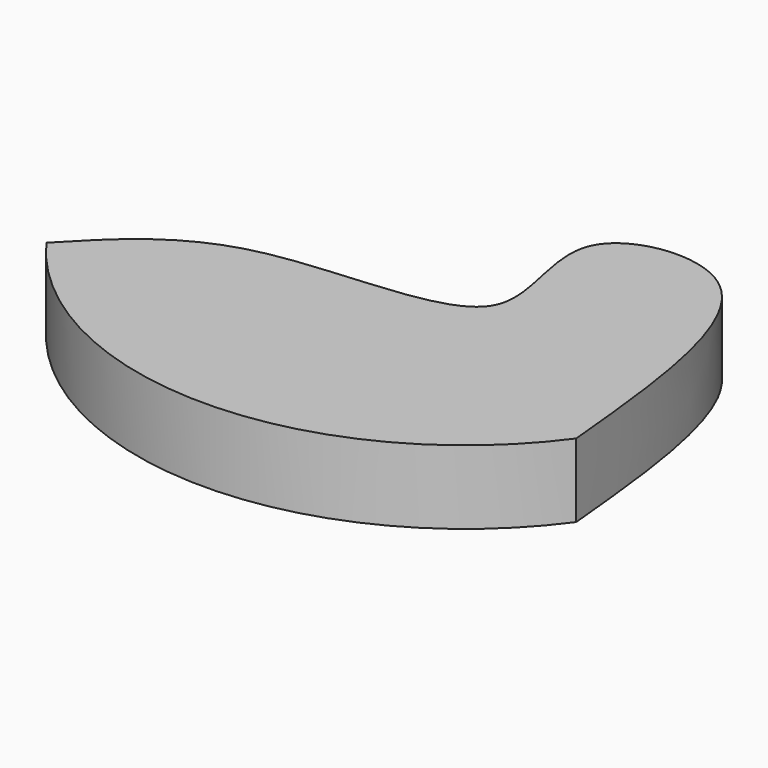
from build123d import *

# Parameters (mm, degrees)
F1_DEPTH = 25.4


with BuildPart() as f1:
    # F0 (on Top) → F1 (new body)
    with BuildSketch(Plane.XY):
        with BuildLine():
            add(Edge.make_bspline(
                [(-133.9695304632, 0), (-121.4644678355, 13.1006768928), (-94.9549490982, 40.8728400481), (4.2845064495, 30.1390340916), (-34.9491511295, 97.6199883433), (38.4167882244, 109.6806388977), (44.8440386014, 41.9022602683), (48.8175228238, 0)],
                knots=[0, 0, 0, 0, 0.1941816851, 0.4116463206, 0.5811883277, 0.741080326, 1, 1, 1, 1], degree=3))
            ThreePointArc((-133.9695304632, 0), (-42.5760038197, -46.5613771396), (48.8175228238, 0))
        make_face()
    extrude(amount=F1_DEPTH)


solid = f1.part
